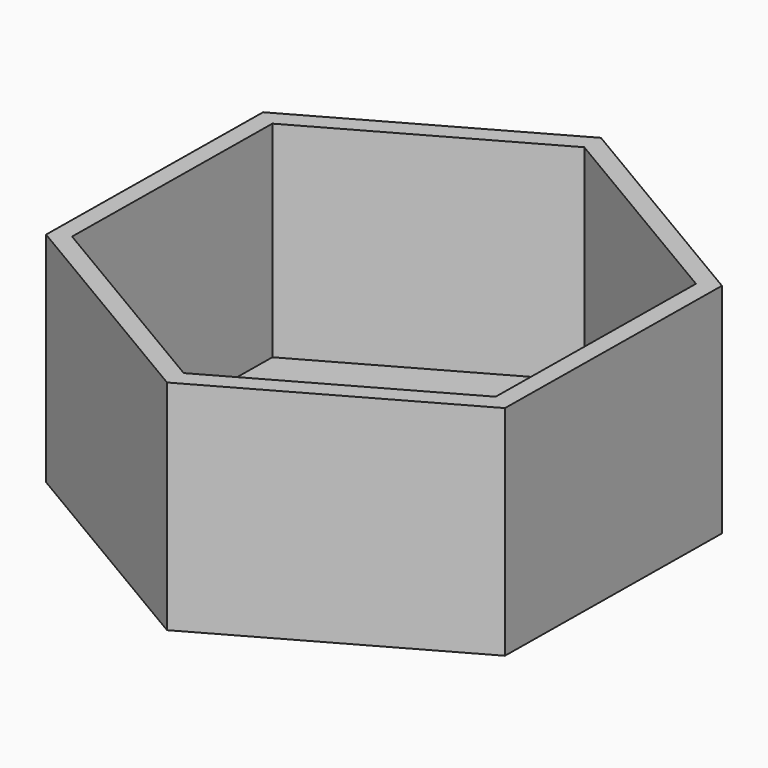
from build123d import *

# Parameters (mm, degrees)
F1_DEPTH = 50
F2_DEPTH = 3


with BuildPart() as f1:
    # F0 (on Top) → F1 (new body)
    with BuildSketch(Plane.XY):
        Polygon((-55.9148403892, 33.1440888282), (-56.6610431051, -31.8516278114), (-0.746202716, -64.9957166397), (55.9148403892, -33.1440888282), (56.6610431051, 31.8516278114), (0.746202716, 64.9957166397), align=None)
        Polygon((51.6136988208, -30.5945435338), (-0.688802507, -59.9960461289), (-52.3025013278, -29.4015025952), (-51.6136988208, 30.5945435338), (0.688802507, 59.9960461289), (52.3025013278, 29.4015025952), align=None, mode=Mode.SUBTRACT)
    extrude(amount=F1_DEPTH)

    # F0 (on Top) → F2 (join)
    with BuildSketch(Plane.XY):
        Polygon((-55.9148403892, 33.1440888282), (-56.6610431051, -31.8516278114), (-0.746202716, -64.9957166397), (55.9148403892, -33.1440888282), (56.6610431051, 31.8516278114), (0.746202716, 64.9957166397), align=None)
        Polygon((51.6136988208, -30.5945435338), (-0.688802507, -59.9960461289), (-52.3025013278, -29.4015025952), (-51.6136988208, 30.5945435338), (0.688802507, 59.9960461289), (52.3025013278, 29.4015025952), align=None, mode=Mode.SUBTRACT)
        Polygon((-52.3025013278, -29.4015025952), (-0.688802507, -59.9960461289), (51.6136988208, -30.5945435338), (52.3025013278, 29.4015025952), (0.688802507, 59.9960461289), (-51.6136988208, 30.5945435338), align=None)
    extrude(amount=-F2_DEPTH)


solid = f1.part
